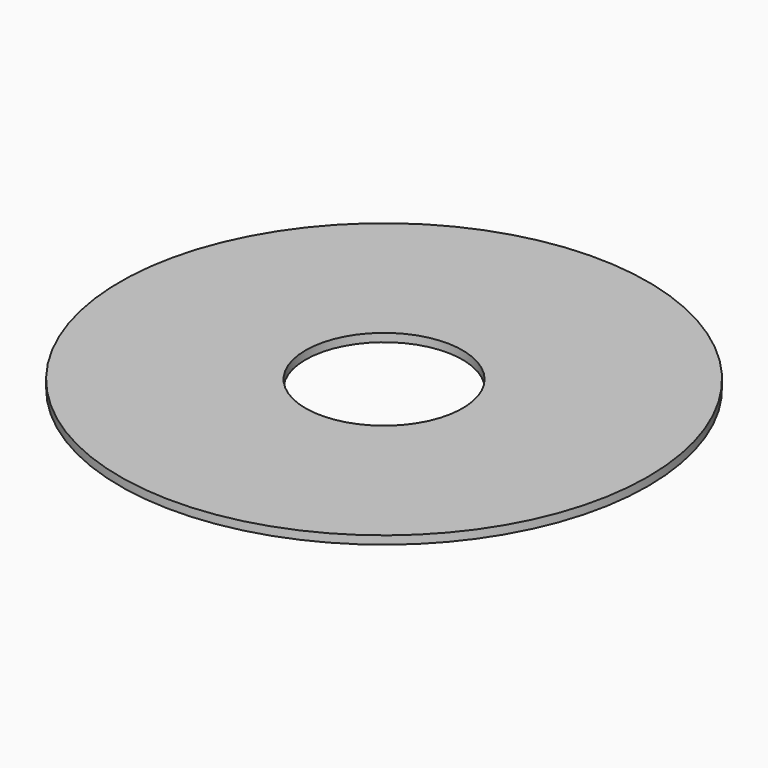
from build123d import *

# Parameters (mm, degrees)
F0_R     = 50.8
F1_DEPTH = 1.5875
F3_D     = 30.226
F3_DEPTH = 3.175


with BuildPart() as f1:
    # F0 (on Top) → F1 (new body)
    with BuildSketch(Plane.XY):
        Circle(F0_R)
    extrude(amount=F1_DEPTH)

    # F3
    with Locations(Plane(origin=(0, 0, 0), x_dir=(1, 0, 0), z_dir=(0, 0, -1))):
        with Locations((0, 0)):
            Hole(F3_D / 2, depth=F3_DEPTH)


solid = f1.part
